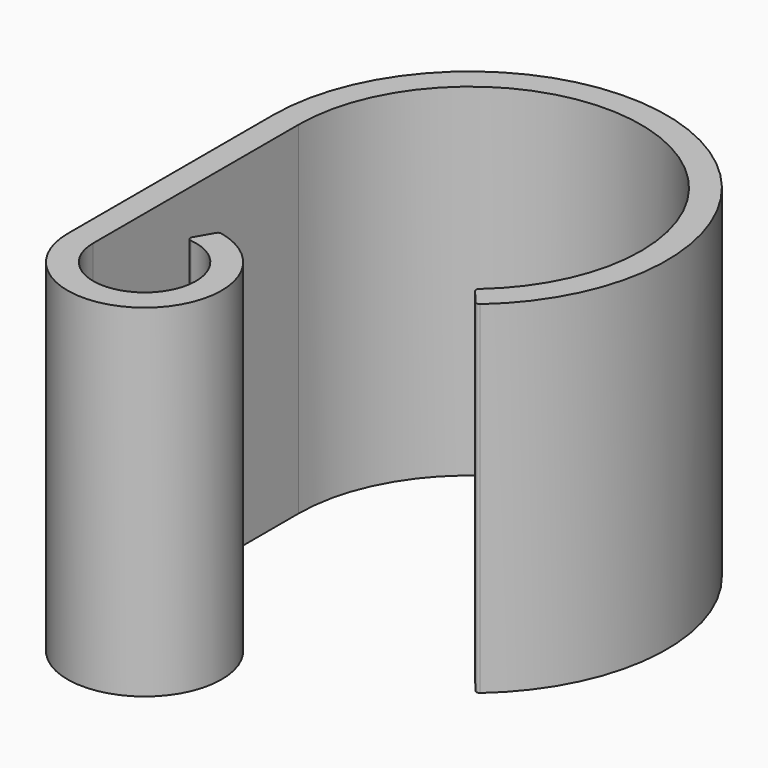
from build123d import *

# Parameters (mm, degrees)
F1_DEPTH = 25.4
F2_R     = 0.254


with BuildPart() as f1:
    # F0 (on Top) → F1 (new body)
    with BuildSketch(Plane.XY):
        with BuildLine():
            Line((-12.7, -19.05), (-12.7, 0))
            ThreePointArc((-12.7, 0), (5.367252, 11.510109), (8.163403, -9.728764))
            Line((8.163403, -9.728764), (9.387913, -11.188079))
            ThreePointArc((9.387913, -11.188079), (6.17234, 13.236625), (-14.605, 0))
            Line((-14.605, 0), (-14.605, -19.05))
            ThreePointArc((-14.605, -19.05), (-5.23671, -23.444849), (-7.845702, -13.431222))
            Line((-7.845702, -13.431222), (-8.89, -15.24))
            ThreePointArc((-8.89, -15.24), (-6.195923, -21.744077), (-12.7, -19.05))
        make_face()
    extrude(amount=F1_DEPTH)

    # F2
    f2_edges = [f1.edges().sort_by_distance(p)[0] for p in [
        (8.163403, -9.728764, 12.7),
        (9.387913, -11.188079, 12.7),
        (-7.845702, -13.431222, 12.7),
        (-8.89, -15.24, 12.7),
    ]]
    fillet(f2_edges, radius=F2_R)


solid = f1.part
